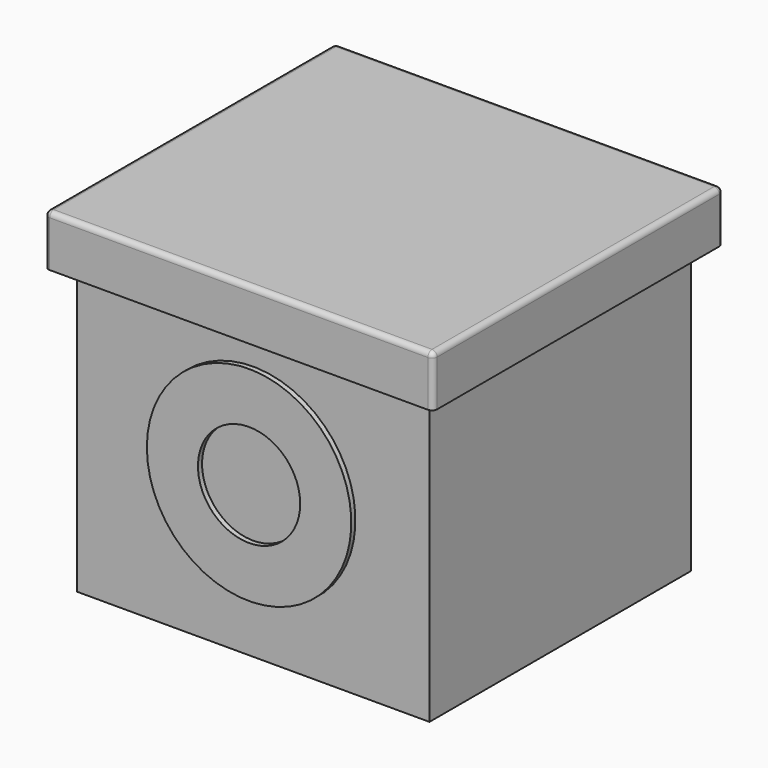
from build123d import *

# Parameters (mm, degrees)
SKETCH005020_R   = 5.1
EXTRUDE017_DEPTH = 1.3
SKETCH005019_W   = 70
SKETCH005019_H   = 65
EXTRUDE016_DEPTH = 8
SKETCH005018_W   = 76
SKETCH005018_H   = 71
EXTRUDE015_DEPTH = 10
FILLET_R         = 1
SKETCH005022_W   = 61
SKETCH005022_H   = 56
EXTRUDE020_DEPTH = 3
SKETCH005021_W   = 65
SKETCH005021_H   = 60
EXTRUDE019_DEPTH = 5
SKETCH005023_W   = 5
SKETCH005023_H   = 1
EXTRUDE021_DEPTH = 0.5
SKETCH005024_W   = 5
SKETCH005024_H   = 1
EXTRUDE022_DEPTH = 0.5
FILLET002_R      = 0.4
SKETCH005025_W   = 5
SKETCH005025_H   = 1
EXTRUDE023_DEPTH = 1
SKETCH005026_W   = 5
SKETCH005026_H   = 1
EXTRUDE024_DEPTH = 1
FILLET003_R      = 0.4
SKETCH005013_W   = 14
SKETCH005013_H   = 2
EXTRUDE014_DEPTH = 4
SKETCH005017_R   = 5.1
EXTRUDE018_DEPTH = 1.3
SKETCH005027_R   = 10
EXTRUDE025_DEPTH = 1
SKETCH005002_R   = 20
EXTRUDE005_DEPTH = 1
EXTRUDE013_DEPTH = 2
SKETCH005028_R   = 11
EXTRUDE026_DEPTH = 2
SKETCH005004_R   = 19
EXTRUDE006_DEPTH = 2
SKETCH003_W      = 48
SKETCH003_H      = 35
EXTRUDE003_DEPTH = 1.5
SKETCH002_W      = 38
SKETCH002_H      = 31
EXTRUDE002_DEPTH = 2
SKETCH001_W      = 65
SKETCH001_H      = 60
EXTRUDE001_DEPTH = 62
SKETCH_W         = 69
SKETCH_H         = 64
EXTRUDE_DEPTH    = 64
CHAMFER_SIZE     = 1.9
SKETCH005011_R   = 1.25
EXTRUDE012_DEPTH = 4
SKETCH004_R      = 1.5
EXTRUDE004_DEPTH = 4
SKETCH005029_R   = 19
EXTRUDE028_DEPTH = 3
SKETCH005030_R   = 21
EXTRUDE027_DEPTH = 3


with BuildPart() as lid_magnet_slot_extrusion:
    # Sketch005020 (on Face1 of ShapeBinder013) → Extrude017 (new body)
    with BuildSketch(Plane(origin=(0, 0, 64), x_dir=(1, 0, 0), z_dir=(0, 0, -1))):
        with Locations((0, 24.9)):
            Circle(SKETCH005020_R)
        with Locations((0, -24.9)):
            Circle(SKETCH005020_R)
    extrude(amount=-EXTRUDE017_DEPTH)


with BuildPart() as lid_interior_extrude:
    # Sketch005019 (on Face1 of CopyExtrude015) → Extrude016 (new body)
    with BuildSketch(Plane(origin=(0, 0, 0), x_dir=(1, 0, 0), z_dir=(0, 0, -1))):
        Rectangle(SKETCH005019_W, SKETCH005019_H)
    extrude(amount=-EXTRUDE016_DEPTH)


with BuildPart() as lid_magnet_slot_cut:
    # Sketch005018 → Extrude015 (new body)
    with BuildSketch(Plane.XY):
        Rectangle(SKETCH005018_W, SKETCH005018_H)
    extrude(amount=EXTRUDE015_DEPTH)

    # Cut008: cut Lid Interior Extrude
    add(lid_interior_extrude.part, mode=Mode.SUBTRACT)


with BuildPart() as lid_magnet_slot_cut_1:
    # Cut008 placement: moved
    add(lid_magnet_slot_cut.part.moved(Location((0, 0, 56))))

    # Fillet
    fillet_edges = [lid_magnet_slot_cut_1.edges().sort_by_distance(p)[0] for p in [
        (-38, 35.5, 61),
        (38, 35.5, 61),
        (0, 35.5, 66),
        (-38, -35.5, 61),
        (-38, 0, 66),
        (38, -35.5, 61),
        (38, 0, 66),
        (0, -35.5, 66),
    ]]
    fillet(fillet_edges, radius=FILLET_R)

    # Cut009: cut Lid Magnet Slot Extrusion
    add(lid_magnet_slot_extrusion.part, mode=Mode.SUBTRACT)


with BuildPart() as bottom_base_interior_extrusion:
    # Sketch005022 (on Face1 of ShapeBinder014) → Extrude020 (new body)
    with BuildSketch(Plane.XY.offset(5)):
        Rectangle(SKETCH005022_W, SKETCH005022_H)
    extrude(amount=-EXTRUDE020_DEPTH)


with BuildPart() as bottom_base_interior_cut:
    # Sketch005021 → Extrude019 (new body)
    with BuildSketch(Plane.XY):
        Rectangle(SKETCH005021_W, SKETCH005021_H)
    extrude(amount=EXTRUDE019_DEPTH)

    # Cut011: cut Bottom Base Interior Extrusion
    add(bottom_base_interior_extrusion.part, mode=Mode.SUBTRACT)


with BuildPart() as bottom_tab_front_extrusion:
    # Sketch005023 (on Face1 of ShapeBinder015) → Extrude021 (new body)
    with BuildSketch(Plane.XZ.offset(30)):
        with Locations((0, 2.5)):
            Rectangle(SKETCH005023_W, SKETCH005023_H)
    extrude(amount=EXTRUDE021_DEPTH)


with BuildPart() as bottom_base_fusion:
    # Sketch005024 (on Face1 of ShapeBinder016) → Extrude022 (new body)
    with BuildSketch(Plane(origin=(0, 30, 0), x_dir=(-1, 0, 0), z_dir=(0, 1, 0))):
        with Locations((0, 2.5)):
            Rectangle(SKETCH005024_W, SKETCH005024_H)
    extrude(amount=EXTRUDE022_DEPTH)

    # Fusion006: union Bottom Tab Front Extrusion
    add(bottom_tab_front_extrusion.part)

    # Fillet002
    fillet002_edges = [bottom_base_fusion.edges().sort_by_distance(p)[0] for p in [
        (0, 30.5, 3),
        (-2.5, 30.5, 2.5),
        (0, 30.5, 2),
        (2.5, 30.5, 2.5),
        (0, -30.5, 3),
        (2.5, -30.5, 2.5),
        (0, -30.5, 2),
        (-2.5, -30.5, 2.5),
    ]]
    fillet(fillet002_edges, radius=FILLET002_R)

    # Fusion007: union Bottom Base Interior Cut
    add(bottom_base_interior_cut.part)


with BuildPart() as body_bottom_tab_rear_extrusion:
    # Sketch005025 (on Face1 of ShapeBinder009) → Extrude023 (new body)
    with BuildSketch(Plane.XZ.offset(-30)):
        with Locations((0, 2.5)):
            Rectangle(SKETCH005025_W, SKETCH005025_H)
    extrude(amount=-EXTRUDE023_DEPTH)


with BuildPart() as body_bottom_tab_fillet:
    # Sketch005026 (on ShapeBinder) → Extrude024 (new body)
    with BuildSketch(Plane(origin=(0, -30, 0), x_dir=(-1, 0, 0), z_dir=(0, 1, 0))):
        with Locations((0, 2.5)):
            Rectangle(SKETCH005026_W, SKETCH005026_H)
    extrude(amount=-EXTRUDE024_DEPTH)

    # Fusion008: union Body Bottom Tab Rear Extrusion
    add(body_bottom_tab_rear_extrusion.part)

    # Fillet003
    fillet003_edges = [body_bottom_tab_fillet.edges().sort_by_distance(p)[0] for p in [
        (0, -31, 3),
        (-2.5, -31, 2.5),
        (0, -31, 2),
        (2.5, -31, 2.5),
        (0, 31, 3),
        (2.5, 31, 2.5),
        (0, 31, 2),
        (-2.5, 31, 2.5),
    ]]
    fillet(fillet003_edges, radius=FILLET003_R)


with BuildPart() as reed_mount_extrusion:
    # Sketch005013 (on Face1 of ShapeBinder008) → Extrude014 (new body)
    with BuildSketch(Plane(origin=(0, 0, 62), x_dir=(1, 0, 0), z_dir=(0, 0, -1))):
        with Locations((0, -26)):
            Rectangle(SKETCH005013_W, SKETCH005013_H)
    extrude(amount=EXTRUDE014_DEPTH)


with BuildPart() as body_magnet_slot_extrude:
    # Sketch005017 (on Face1 of ShapeBinder008) → Extrude018 (new body)
    with BuildSketch(Plane(origin=(0, 0, 62), x_dir=(1, 0, 0), z_dir=(0, 0, -1))):
        with Locations((0, 24.9)):
            Circle(SKETCH005017_R)
    extrude(amount=-EXTRUDE018_DEPTH)


with BuildPart() as symbol_exterior_inner_extrude:
    # Sketch005027 (on Face1 of CopyCut002) → Extrude025 (new body)
    with BuildSketch(Plane.XZ.offset(32)):
        with Locations((0, 30)):
            Circle(SKETCH005027_R)
    extrude(amount=EXTRUDE025_DEPTH)


with BuildPart() as symbol_exterior_ring_cut:
    # Sketch005002 (on Face1 of Cut002) → Extrude005 (new body)
    with BuildSketch(Plane(origin=(0, -32, 0), x_dir=(-1, 0, 0), z_dir=(0, -1, 0))):
        with Locations((0, -30)):
            Circle(SKETCH005002_R)
    extrude(amount=EXTRUDE005_DEPTH)

    # Cut012: cut Symbol Exterior Inner Extrude
    add(symbol_exterior_inner_extrude.part, mode=Mode.SUBTRACT)


with BuildPart() as micro_usb_cutout_extrusion:
    # Sketch005012 (on Face1 of ShapeBinder009) → Extrude013 (new body)
    with BuildSketch(Plane.XZ.offset(-30)):
        Polygon((-17.5, 32.75), (-17.5, 26.75), (-19, 25.75), (-20.5, 25.75), (-20.5, 33.75), (-19, 33.75), align=None)
    extrude(amount=-EXTRUDE013_DEPTH)


with BuildPart() as symbol_interior_inner_extrude:
    # Sketch005028 (on Face1 of ShapeBinder) → Extrude026 (new body)
    with BuildSketch(Plane(origin=(0, -30, 0), x_dir=(-1, 0, 0), z_dir=(0, 1, 0))):
        with Locations((0, 30)):
            Circle(SKETCH005028_R)
    extrude(amount=-EXTRUDE026_DEPTH)


with BuildPart() as symbol_interior_ring_cut:
    # Sketch005004 (on Face1 of ShapeBinder) → Extrude006 (new body)
    with BuildSketch(Plane(origin=(0, -30, 0), x_dir=(-1, 0, 0), z_dir=(0, 1, 0))):
        with Locations((0, 30)):
            Circle(SKETCH005004_R)
    extrude(amount=-EXTRUDE006_DEPTH)

    # Cut013: cut Symbol Interior Inner Extrude
    add(symbol_interior_inner_extrude.part, mode=Mode.SUBTRACT)


with BuildPart() as lcd_cutout_extrude:
    # Sketch003 (on Face1 of ShapeBinder008) → Extrude003 (new body)
    with BuildSketch(Plane(origin=(0, 0, 62), x_dir=(1, 0, 0), z_dir=(0, 0, -1))):
        with Locations((3, 0)):
            Rectangle(SKETCH003_W, SKETCH003_H)
    extrude(amount=-EXTRUDE003_DEPTH)


with BuildPart() as lcd_window_extrude:
    # Sketch002 (on Face1 of ShapeBinder008) → Extrude002 (new body)
    with BuildSketch(Plane(origin=(0, 0, 62), x_dir=(1, 0, 0), z_dir=(0, 0, -1))):
        Rectangle(SKETCH002_W, SKETCH002_H)
    extrude(amount=-EXTRUDE002_DEPTH)


with BuildPart() as box_interior_extrude:
    # Sketch001 (on Face5 of Extrude) → Extrude001 (new body)
    with BuildSketch(Plane(origin=(0, 0, 0), x_dir=(1, 0, 0), z_dir=(0, 0, -1))):
        Rectangle(SKETCH001_W, SKETCH001_H)
    extrude(amount=-EXTRUDE001_DEPTH)


with BuildPart() as micro_usb_port_flare:
    # Sketch → Extrude (new body)
    with BuildSketch(Plane.XY):
        Rectangle(SKETCH_W, SKETCH_H)
    extrude(amount=EXTRUDE_DEPTH)

    # Cut: cut Box Interior Extrude
    add(box_interior_extrude.part, mode=Mode.SUBTRACT)

    # Cut001: cut LCD Window Extrude
    add(lcd_window_extrude.part, mode=Mode.SUBTRACT)

    # Cut002: cut LCD Cutout Extrude
    add(lcd_cutout_extrude.part, mode=Mode.SUBTRACT)

    # Cut003: cut Symbol Interior Ring Cut
    add(symbol_interior_ring_cut.part, mode=Mode.SUBTRACT)

    # Cut007: cut Micro-USB Cutout Extrusion
    add(micro_usb_cutout_extrusion.part, mode=Mode.SUBTRACT)

    # Chamfer
    chamfer_edges = [micro_usb_port_flare.edges().sort_by_distance(p)[0] for p in [
        (-18.25, 32, 33.25),
        (-19.75, 32, 33.75),
        (-20.5, 32, 29.75),
        (-19.75, 32, 25.75),
        (-18.25, 32, 26.25),
        (-17.5, 32, 29.75),
    ]]
    chamfer(chamfer_edges, length=CHAMFER_SIZE)


with BuildPart() as reed_mount_fusion:
    # Sketch005011 (on Face1 of ShapeBinder010) → Extrude012 (new body)
    with BuildSketch(Plane.YZ.offset(-32.5)):
        with Locations((25.5, 13.5)):
            Circle(SKETCH005011_R)
        with Locations((1.5, 46)):
            Circle(SKETCH005011_R)
    extrude(amount=EXTRUDE012_DEPTH)

    # Fusion001: union Micro-USB Port Flare
    add(micro_usb_port_flare.part)

    # Fusion002: union Symbol Exterior Ring Cut
    add(symbol_exterior_ring_cut.part)

    # Cut010: cut Body Magnet Slot Extrude
    add(body_magnet_slot_extrude.part, mode=Mode.SUBTRACT)

    # Fusion003: union Reed Mount Extrusion
    add(reed_mount_extrusion.part)


with BuildPart() as body_bottom_tab_cut:
    # Sketch004 (on Face1 of ShapeBinder008) → Extrude004 (new body)
    with BuildSketch(Plane(origin=(0, 0, 62), x_dir=(1, 0, 0), z_dir=(0, 0, -1))):
        with Locations((29, 14.3)):
            Circle(SKETCH004_R)
        with Locations((-23, 14.3)):
            Circle(SKETCH004_R)
        with Locations((-23, -14.3)):
            Circle(SKETCH004_R)
        with Locations((29, -14.3)):
            Circle(SKETCH004_R)
    extrude(amount=EXTRUDE004_DEPTH)

    # Fusion004: union Reed Mount Fusion
    add(reed_mount_fusion.part)

    # Cut014: cut Body Bottom Tab Fillet
    add(body_bottom_tab_fillet.part, mode=Mode.SUBTRACT)


with BuildPart() as extrude028:
    # Sketch005029 (on ShapeBinder) → Extrude028 (new body)
    with BuildSketch(Plane(origin=(0, -30, 0), x_dir=(-1, 0, 0), z_dir=(0, 1, 0))):
        with Locations((0, 30)):
            Circle(SKETCH005029_R)
    extrude(amount=EXTRUDE028_DEPTH)


with BuildPart() as symbol_guard_fusion:
    # Sketch005030 (on ShapeBinder) → Extrude027 (new body)
    with BuildSketch(Plane(origin=(0, -30, 0), x_dir=(-1, 0, 0), z_dir=(0, 1, 0))):
        with Locations((0, 30)):
            Circle(SKETCH005030_R)
    extrude(amount=EXTRUDE027_DEPTH)

    # Cut015: cut Extrude028
    add(extrude028.part, mode=Mode.SUBTRACT)

    # Fusion: union Body Bottom Tab Cut
    add(body_bottom_tab_cut.part)


solid = Compound([lid_magnet_slot_cut_1.part, bottom_base_fusion.part, symbol_guard_fusion.part])
